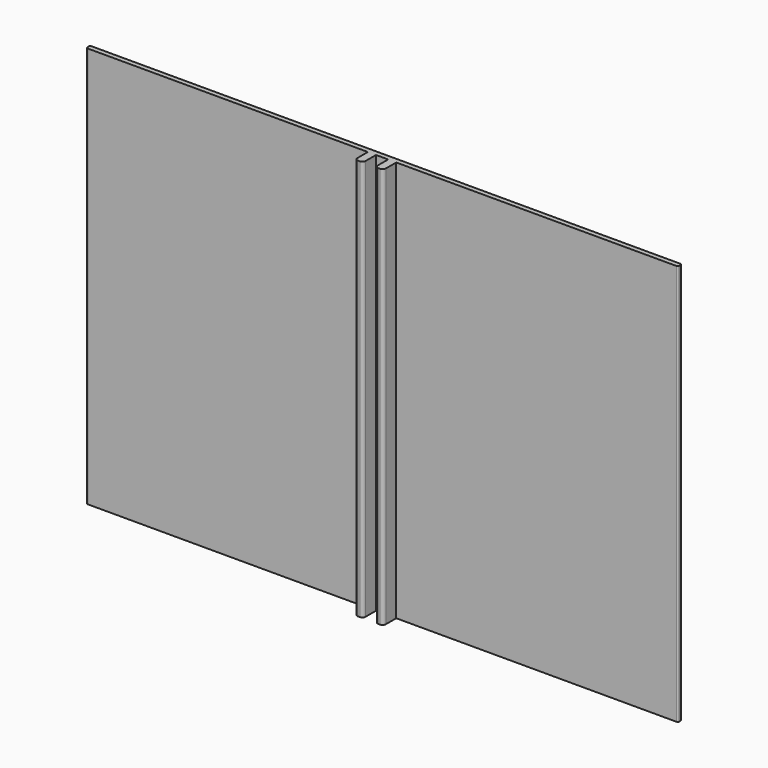
from build123d import *

# Parameters (mm, degrees)
SKETCH003_W  = 73
SKETCH003_H  = 0.6
PAD003_DEPTH = 49.5
SKETCH004_W  = 1
SKETCH004_H  = 49.5
PAD004_DEPTH = 2
FILLET005_R  = 0.4
FILLET006_R  = 0.2


with BuildPart() as part:
    # Sketch003 → Pad003 (new body)
    with BuildSketch(Plane.XY):
        Rectangle(SKETCH003_W, SKETCH003_H)
    extrude(amount=PAD003_DEPTH)

    # Sketch004 (on Face3 of Pad003) → Pad004 (join)
    with BuildSketch(Plane.XZ.offset(0.3)):
        with Locations((-1.25, 24.75)):
            Rectangle(SKETCH004_W, SKETCH004_H)
        with Locations((1.25, 24.75)):
            Rectangle(SKETCH004_W, SKETCH004_H)
    extrude(amount=PAD004_DEPTH)

    # Fillet005
    fillet005_edges = [part.edges().sort_by_distance(p)[0] for p in [
        (-1.75, -2.3, 24.75),
        (-0.75, -2.3, 24.75),
        (0.75, -2.3, 24.75),
        (1.75, -2.3, 24.75),
    ]]
    fillet(fillet005_edges, radius=FILLET005_R)

    # Fillet006
    fillet006_edges = [part.edges().sort_by_distance(p)[0] for p in [
        (-36.5, -0.3, 24.75),
        (-36.5, 0.3, 24.75),
        (36.5, -0.3, 24.75),
        (36.5, 0.3, 24.75),
    ]]
    fillet(fillet006_edges, radius=FILLET006_R)


with BuildPart() as part_1:
    # Body002 placement: moved
    add(part.part.moved(Location((0, -44, -241))))


solid = part_1.part
